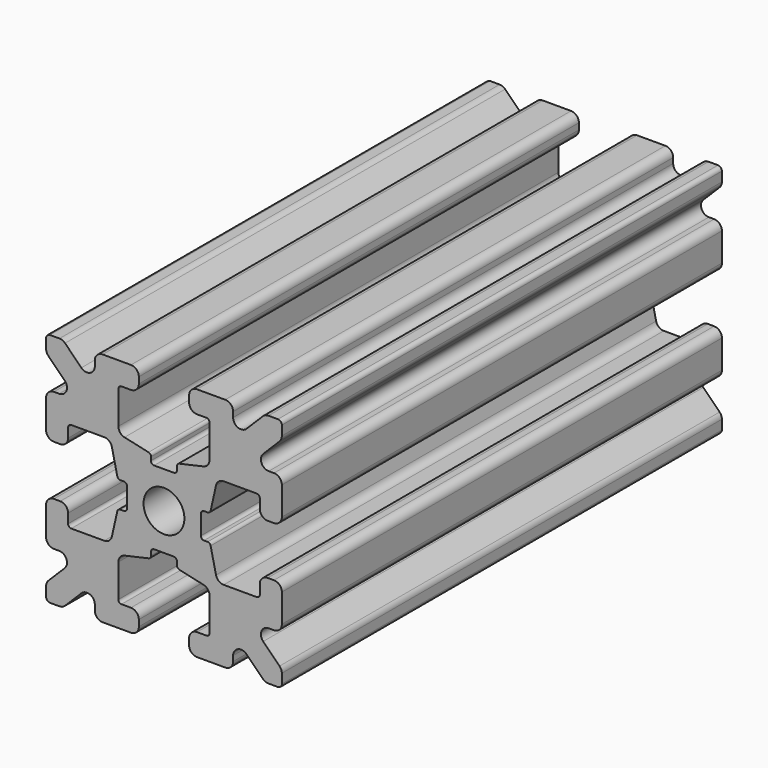
from build123d import *

# Parameters (mm, degrees)
F0_R     = 1.3
F1_DEPTH = 17.5


with BuildPart() as f1:
    # F0 (on Front) → F1 (new body, symmetric)
    with BuildSketch(Plane.XZ):
        with BuildLine():
            ThreePointArc((0.6255, -2.347065), (0.766921, -2.405643), (0.8255, -2.547065))
            Line((0.8255, -2.547065), (0.8255, -2.774891))
            ThreePointArc((0.8255, -2.774891), (0.869378, -2.899894), (0.981758, -2.970049))
            Line((0.981758, -2.970049), (2.509356, -3.312442))
            ThreePointArc((2.509356, -3.312442), (2.790306, -3.487829), (2.9, -3.800337))
            Line((2.9, -3.800337), (2.9, -5.9))
            ThreePointArc((2.9, -5.9), (2.841421, -6.041421), (2.7, -6.1))
            Line((2.7, -6.1), (2.1, -6.1))
            ThreePointArc((2.1, -6.1), (1.746447, -6.246447), (1.6, -6.6))
            Line((1.6, -6.6), (1.6, -7))
            ThreePointArc((1.6, -7), (1.746447, -7.353553), (2.1, -7.5))
            Line((2.1, -7.5), (3.9, -7.5))
            ThreePointArc((3.9, -7.5), (4.253553, -7.353553), (4.4, -7))
            Line((4.4, -7), (4.4, -6.667767))
            ThreePointArc((4.4, -6.667767), (4.708658, -6.205827), (5.253553, -6.314214))
            Line((5.253553, -6.314214), (6.292893, -7.353553))
            ThreePointArc((6.292893, -7.353553), (6.455105, -7.46194), (6.646447, -7.5))
            Line((6.646447, -7.5), (7.25, -7.5))
            ThreePointArc((7.25, -7.5), (7.426777, -7.426777), (7.5, -7.25))
            Line((7.5, -7.25), (7.5, -6.646447))
            ThreePointArc((7.5, -6.646447), (7.46194, -6.455105), (7.353553, -6.292893))
            Line((7.353553, -6.292893), (6.314214, -5.253553))
            ThreePointArc((6.314214, -5.253553), (6.205827, -4.708658), (6.667767, -4.4))
            Line((6.667767, -4.4), (7, -4.4))
            ThreePointArc((7, -4.4), (7.353553, -4.253553), (7.5, -3.9))
            Line((7.5, -3.9), (7.5, -2.1))
            ThreePointArc((7.5, -2.1), (7.353553, -1.746447), (7, -1.6))
            Line((7, -1.6), (6.6, -1.6))
            ThreePointArc((6.6, -1.6), (6.246447, -1.746447), (6.1, -2.1))
            Line((6.1, -2.1), (6.1, -2.7))
            ThreePointArc((6.1, -2.7), (6.041421, -2.841421), (5.9, -2.9))
            Line((5.9, -2.9), (3.800337, -2.9))
            ThreePointArc((3.800337, -2.9), (3.487829, -2.790306), (3.312442, -2.509356))
            Line((3.312442, -2.509356), (2.970049, -0.981758))
            ThreePointArc((2.970049, -0.981758), (2.899894, -0.869378), (2.774891, -0.8255))
            Line((2.774891, -0.8255), (2.547065, -0.8255))
            ThreePointArc((2.547065, -0.8255), (2.405643, -0.766921), (2.347065, -0.6255))
            Line((2.347065, -0.6255), (2.347065, 0.6255))
            ThreePointArc((2.347065, 0.6255), (2.405643, 0.766921), (2.547065, 0.8255))
            Line((2.547065, 0.8255), (2.774891, 0.8255))
            ThreePointArc((2.774891, 0.8255), (2.899894, 0.869378), (2.970049, 0.981758))
            Line((2.970049, 0.981758), (3.312442, 2.509356))
            ThreePointArc((3.312442, 2.509356), (3.487829, 2.790306), (3.800337, 2.9))
            Line((3.800337, 2.9), (5.9, 2.9))
            ThreePointArc((5.9, 2.9), (6.041421, 2.841421), (6.1, 2.7))
            Line((6.1, 2.7), (6.1, 2.1))
            ThreePointArc((6.1, 2.1), (6.246447, 1.746447), (6.6, 1.6))
            Line((6.6, 1.6), (7, 1.6))
            ThreePointArc((7, 1.6), (7.353553, 1.746447), (7.5, 2.1))
            Line((7.5, 2.1), (7.5, 3.9))
            ThreePointArc((7.5, 3.9), (7.353553, 4.253553), (7, 4.4))
            Line((7, 4.4), (6.667767, 4.4))
            ThreePointArc((6.667767, 4.4), (6.205827, 4.708658), (6.314214, 5.253553))
            Line((6.314214, 5.253553), (7.353553, 6.292893))
            ThreePointArc((7.353553, 6.292893), (7.46194, 6.455105), (7.5, 6.646447))
            Line((7.5, 6.646447), (7.5, 7.25))
            ThreePointArc((7.5, 7.25), (7.426777, 7.426777), (7.25, 7.5))
            Line((7.25, 7.5), (6.646447, 7.5))
            ThreePointArc((6.646447, 7.5), (6.455105, 7.46194), (6.292893, 7.353553))
            Line((6.292893, 7.353553), (5.253553, 6.314214))
            ThreePointArc((5.253553, 6.314214), (4.708658, 6.205827), (4.4, 6.667767))
            Line((4.4, 6.667767), (4.4, 7))
            ThreePointArc((4.4, 7), (4.253553, 7.353553), (3.9, 7.5))
            Line((3.9, 7.5), (2.1, 7.5))
            ThreePointArc((2.1, 7.5), (1.746447, 7.353553), (1.6, 7))
            Line((1.6, 7), (1.6, 6.6))
            ThreePointArc((1.6, 6.6), (1.746447, 6.246447), (2.1, 6.1))
            Line((2.1, 6.1), (2.7, 6.1))
            ThreePointArc((2.7, 6.1), (2.841421, 6.041421), (2.9, 5.9))
            Line((2.9, 5.9), (2.9, 3.800337))
            ThreePointArc((2.9, 3.800337), (2.790306, 3.487829), (2.509356, 3.312442))
            Line((2.509356, 3.312442), (0.981758, 2.970049))
            ThreePointArc((0.981758, 2.970049), (0.869378, 2.899894), (0.8255, 2.774891))
            Line((0.8255, 2.774891), (0.8255, 2.547065))
            ThreePointArc((0.8255, 2.547065), (0.766921, 2.405643), (0.6255, 2.347065))
            Line((0.6255, 2.347065), (-0.6255, 2.347065))
            ThreePointArc((-0.6255, 2.347065), (-0.766921, 2.405643), (-0.8255, 2.547065))
            Line((-0.8255, 2.547065), (-0.8255, 2.774891))
            ThreePointArc((-0.8255, 2.774891), (-0.869378, 2.899894), (-0.981758, 2.970049))
            Line((-0.981758, 2.970049), (-2.509356, 3.312442))
            ThreePointArc((-2.509356, 3.312442), (-2.790306, 3.487829), (-2.9, 3.800337))
            Line((-2.9, 3.800337), (-2.9, 5.9))
            ThreePointArc((-2.9, 5.9), (-2.841421, 6.041421), (-2.7, 6.1))
            Line((-2.7, 6.1), (-2.1, 6.1))
            ThreePointArc((-2.1, 6.1), (-1.746447, 6.246447), (-1.6, 6.6))
            Line((-1.6, 6.6), (-1.6, 7))
            ThreePointArc((-1.6, 7), (-1.746447, 7.353553), (-2.1, 7.5))
            Line((-2.1, 7.5), (-3.9, 7.5))
            ThreePointArc((-3.9, 7.5), (-4.253553, 7.353553), (-4.4, 7))
            Line((-4.4, 7), (-4.4, 6.667767))
            ThreePointArc((-4.4, 6.667767), (-4.708658, 6.205827), (-5.253553, 6.314214))
            Line((-5.253553, 6.314214), (-6.292893, 7.353553))
            ThreePointArc((-6.292893, 7.353553), (-6.455105, 7.46194), (-6.646447, 7.5))
            Line((-6.646447, 7.5), (-7.25, 7.5))
            ThreePointArc((-7.25, 7.5), (-7.426777, 7.426777), (-7.5, 7.25))
            Line((-7.5, 7.25), (-7.5, 6.646447))
            ThreePointArc((-7.5, 6.646447), (-7.46194, 6.455105), (-7.353553, 6.292893))
            Line((-7.353553, 6.292893), (-6.314214, 5.253553))
            ThreePointArc((-6.314214, 5.253553), (-6.205827, 4.708658), (-6.667767, 4.4))
            Line((-6.667767, 4.4), (-7, 4.4))
            ThreePointArc((-7, 4.4), (-7.353553, 4.253553), (-7.5, 3.9))
            Line((-7.5, 3.9), (-7.5, 2.1))
            ThreePointArc((-7.5, 2.1), (-7.353553, 1.746447), (-7, 1.6))
            Line((-7, 1.6), (-6.6, 1.6))
            ThreePointArc((-6.6, 1.6), (-6.246447, 1.746447), (-6.1, 2.1))
            Line((-6.1, 2.1), (-6.1, 2.7))
            ThreePointArc((-6.1, 2.7), (-6.041421, 2.841421), (-5.9, 2.9))
            Line((-5.9, 2.9), (-3.800337, 2.9))
            ThreePointArc((-3.800337, 2.9), (-3.487829, 2.790306), (-3.312442, 2.509356))
            Line((-3.312442, 2.509356), (-2.970049, 0.981758))
            ThreePointArc((-2.970049, 0.981758), (-2.899894, 0.869378), (-2.774891, 0.8255))
            Line((-2.774891, 0.8255), (-2.547065, 0.8255))
            ThreePointArc((-2.547065, 0.8255), (-2.405643, 0.766921), (-2.347065, 0.6255))
            Line((-2.347065, 0.6255), (-2.347065, -0.6255))
            ThreePointArc((-2.347065, -0.6255), (-2.405643, -0.766921), (-2.547065, -0.8255))
            Line((-2.547065, -0.8255), (-2.774891, -0.8255))
            ThreePointArc((-2.774891, -0.8255), (-2.899894, -0.869378), (-2.970049, -0.981758))
            Line((-2.970049, -0.981758), (-3.312442, -2.509356))
            ThreePointArc((-3.312442, -2.509356), (-3.487829, -2.790306), (-3.800337, -2.9))
            Line((-3.800337, -2.9), (-5.9, -2.9))
            ThreePointArc((-5.9, -2.9), (-6.041421, -2.841421), (-6.1, -2.7))
            Line((-6.1, -2.7), (-6.1, -2.1))
            ThreePointArc((-6.1, -2.1), (-6.246447, -1.746447), (-6.6, -1.6))
            Line((-6.6, -1.6), (-7, -1.6))
            ThreePointArc((-7, -1.6), (-7.353553, -1.746447), (-7.5, -2.1))
            Line((-7.5, -2.1), (-7.5, -3.9))
            ThreePointArc((-7.5, -3.9), (-7.353553, -4.253553), (-7, -4.4))
            Line((-7, -4.4), (-6.667767, -4.4))
            ThreePointArc((-6.667767, -4.4), (-6.205827, -4.708658), (-6.314214, -5.253553))
            Line((-6.314214, -5.253553), (-7.353553, -6.292893))
            ThreePointArc((-7.353553, -6.292893), (-7.46194, -6.455105), (-7.5, -6.646447))
            Line((-7.5, -6.646447), (-7.5, -7.25))
            ThreePointArc((-7.5, -7.25), (-7.426777, -7.426777), (-7.25, -7.5))
            Line((-7.25, -7.5), (-6.646447, -7.5))
            ThreePointArc((-6.646447, -7.5), (-6.455105, -7.46194), (-6.292893, -7.353553))
            Line((-6.292893, -7.353553), (-5.253553, -6.314214))
            ThreePointArc((-5.253553, -6.314214), (-4.708658, -6.205827), (-4.4, -6.667767))
            Line((-4.4, -6.667767), (-4.4, -7))
            ThreePointArc((-4.4, -7), (-4.253553, -7.353553), (-3.9, -7.5))
            Line((-3.9, -7.5), (-2.1, -7.5))
            ThreePointArc((-2.1, -7.5), (-1.746447, -7.353553), (-1.6, -7))
            Line((-1.6, -7), (-1.6, -6.6))
            ThreePointArc((-1.6, -6.6), (-1.746447, -6.246447), (-2.1, -6.1))
            Line((-2.1, -6.1), (-2.7, -6.1))
            ThreePointArc((-2.7, -6.1), (-2.841421, -6.041421), (-2.9, -5.9))
            Line((-2.9, -5.9), (-2.9, -3.800337))
            ThreePointArc((-2.9, -3.800337), (-2.790306, -3.487829), (-2.509356, -3.312442))
            Line((-2.509356, -3.312442), (-0.981758, -2.970049))
            ThreePointArc((-0.981758, -2.970049), (-0.869378, -2.899894), (-0.8255, -2.774891))
            Line((-0.8255, -2.774891), (-0.8255, -2.547065))
            ThreePointArc((-0.8255, -2.547065), (-0.766921, -2.405643), (-0.6255, -2.347065))
            Line((-0.6255, -2.347065), (0.6255, -2.347065))
        make_face()
        Circle(F0_R, mode=Mode.SUBTRACT)
    extrude(amount=F1_DEPTH, both=True)


solid = f1.part
